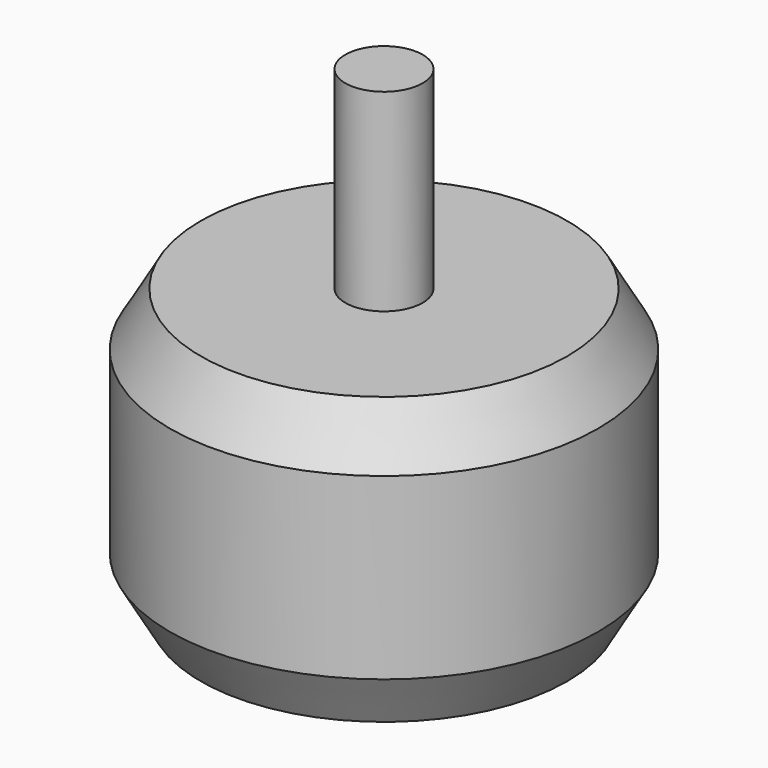
from build123d import *

# Parameters (mm, degrees)
F0_R       = 13.85
F1_DEPTH   = 18.5
F2_R       = 1.5
F3_DEPTH   = 1
F4_R       = 2.5
F5_DEPTH   = 12.5
F6_SIZE2   = 3.4641016151
F6_SIZE    = 2
F6_2_SIZE2 = 3.4641016151
F6_2_SIZE  = 2
F8_D       = 2.5
F8_DEPTH   = 13.5
F8_TIP     = 0.7510757738


with BuildPart() as f1:
    # F0 (on Top) → F1 (new body)
    with BuildSketch(Plane.XY):
        Circle(F0_R)
    extrude(amount=F1_DEPTH)

    # F2 (on face) → F3 (join)
    with BuildSketch(Plane(origin=(0, 0, 0), x_dir=(1, 0, 0), z_dir=(0, 0, -1))):
        Circle(F2_R)
    extrude(amount=F3_DEPTH)

    # F4 (on face) → F5 (join)
    with BuildSketch(Plane.XY.offset(18.5)):
        Circle(F4_R)
    extrude(amount=F5_DEPTH)

    # F6
    f6_edges = [f1.edges().sort_by_distance(p)[0] for p in [
        (-13.85, 0, 18.5),
    ]]
    f6_side = f1.faces().sort_by_distance((-13.458263, 0, 18.5))[0]
    chamfer(f6_edges, length=F6_SIZE, length2=F6_SIZE2, reference=f6_side)

    # F6#2
    f6_2_edges = [f1.edges().sort_by_distance(p)[0] for p in [
        (-13.85, 0, 0),
    ]]
    f6_2_side = f1.faces().sort_by_distance((-13.458263, 0, 0))[0]
    chamfer(f6_2_edges, length=F6_2_SIZE, length2=F6_2_SIZE2, reference=f6_2_side)

    # F8
    with Locations(Plane(origin=(0, 0, 0), x_dir=(1, 0, 0), z_dir=(0, 0, -1))):
        with Locations((-9.5, 0), (0, 8), (9.5, 0), (0, -8)):
            Hole(F8_D / 2, depth=F8_DEPTH)
            with Locations((0, 0, -(F8_DEPTH + F8_TIP / 2))):  # 118° drill point
                Cone(0, F8_D / 2, F8_TIP, mode=Mode.SUBTRACT)


solid = f1.part
